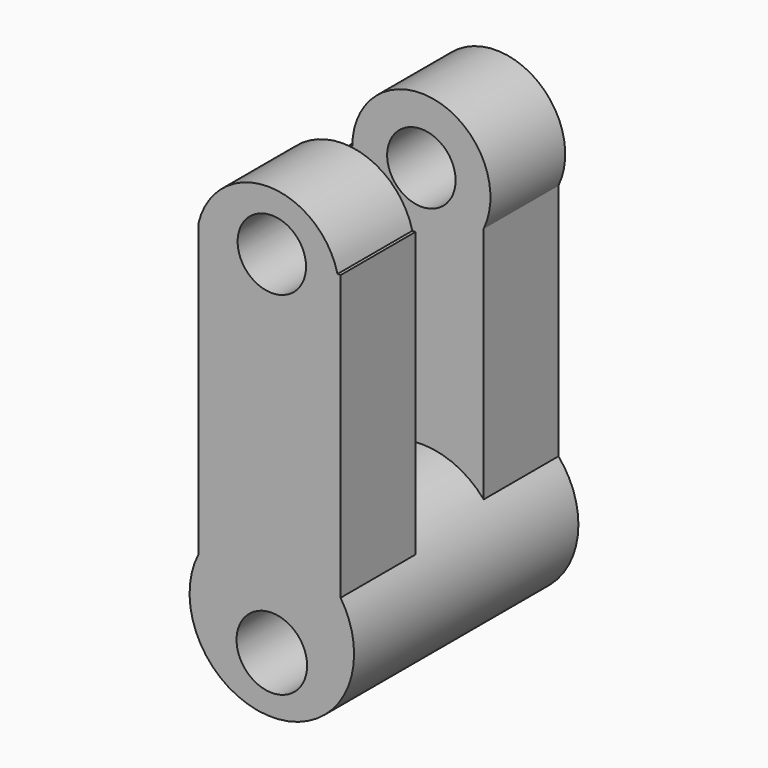
from build123d import *

# Parameters (mm, degrees)
F0_R      = 22.355293723
F10_DEPTH = 25.4
F1_DEPTH  = 50.8
F11_DEPTH = 25.4
F3_DEPTH  = 25.4
F14_DEPTH = 25.4
F5_DEPTH  = 25.4
F6_R      = 9.2971028971
F7_DEPTH  = 76.201
F8_R      = 9.5875632129
F9_DEPTH  = 76.201


with BuildPart() as f10:
    # F0 (on Front) → F10 (new body)
    with BuildSketch(Plane.XZ):
        with Locations((0, -38.8152748346)):
            Circle(F0_R)
    extrude(amount=F10_DEPTH)

    # F1 (add): a face of the model
    f1_faces = [f10.faces().sort_by_distance(p)[0] for p in [
        (0, -25.4, -38.8152748346),
    ]]
    extrude(f1_faces, amount=F1_DEPTH)

    # F2 (on face) → F11 (join)
    with BuildSketch(Plane.XZ.offset(76.2)):
        with BuildLine():
            Line((18.6882317066, -26.5470576406), (18.6882317066, 50.6553947926))
            Line((18.6882317066, 50.6553947926), (-19.891411387, 50.6553947926))
            Line((-19.891411387, 50.6553947926), (-19.891411387, -28.6127795284))
            ThreePointArc((-19.891411387, -28.6127795284), (-1.1952874404, -16.4919586523), (18.6882317066, -26.5470576406))
        make_face()
    extrude(amount=-F11_DEPTH)

    # F12 (on face) → F3 (join)
    with BuildSketch(Plane(origin=(0, 0, 0), x_dir=(-1, 0, 0), z_dir=(0, 1, 0))):
        with BuildLine():
            Line((19.5738153324, 48.656180501), (-16.9442743063, 48.656180501))
            Line((-16.9442743063, 48.656180501), (-16.9442743063, -24.232726166))
            ThreePointArc((-16.9442743063, -24.232726166), (2.3036626211, -16.5789915128), (19.5738153324, -28.0159734325))
            Line((19.5738153324, -28.0159734325), (19.5738153324, 48.656180501))
        make_face()
    extrude(amount=-F3_DEPTH)

    # F13 (on face) → F14 (join)
    with BuildSketch(Plane.XZ.offset(76.2)):
        with BuildLine():
            Line((-19.891411387, 50.6553947926), (17.8490708054, 50.6553947926))
            ThreePointArc((17.8490708054, 50.6553947926), (-1.0211702908, 65.4485059403), (-19.891411387, 50.6553947926))
        make_face()
    extrude(amount=-F14_DEPTH)

    # F4 (on face) → F5 (join)
    with BuildSketch(Plane(origin=(0, 0, 0), x_dir=(-1, 0, 0), z_dir=(0, 1, 0))):
        with BuildLine():
            Line((-16.9442743063, 48.656180501), (18.7738145008, 48.656180501))
            ThreePointArc((18.7738145008, 48.656180501), (-4.1441192209, 66.9668983131), (-16.9442743063, 40.5723893641))
            Line((-16.9442743063, 40.5723893641), (-16.9442743063, 48.656180501))
        make_face()
    extrude(amount=-F5_DEPTH)

    # F6 (on face) → F7 (cut, through all)
    with BuildSketch(Plane.XZ.offset(76.2)):
        with Locations((0, 49.5857223868)):
            Circle(F6_R)
    extrude(amount=-F7_DEPTH, mode=Mode.SUBTRACT)

    # F8 (on face) → F9 (cut, through all)
    with BuildSketch(Plane.XZ.offset(76.2)):
        with Locations((0, -45.7826852798)):
            Circle(F8_R)
    extrude(amount=-F9_DEPTH, mode=Mode.SUBTRACT)


solid = f10.part
